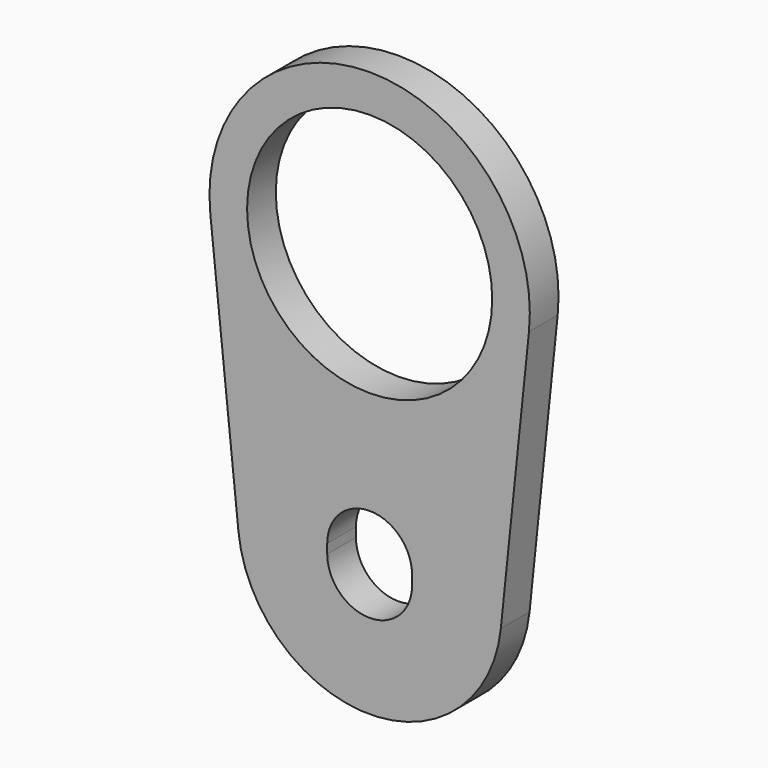
from build123d import *

# Parameters (mm, degrees)
F0_R     = 65.0367
F1_DEPTH = 19.05


with BuildPart() as f1:
    # F0 (on Front) → F1 (new body)
    with BuildSketch(Plane.XZ):
        with BuildLine():
            Line((69.6244384228, -152.2413793103), (84.5439609419, -8.7931034483))
            ThreePointArc((84.5439609419, -8.7931034483), (0, 85), (-84.5439609419, -8.7931034483))
            Line((-84.5439609419, -8.7931034483), (-69.6244384228, -152.2413793103))
            ThreePointArc((-69.6244384228, -152.2413793103), (0, -215), (69.6244384228, -152.2413793103))
        make_face()
        with BuildLine():
            Line((-22.5, -147.5), (-22.5, -142.5))
            ThreePointArc((-22.5, -142.5), (0, -120), (22.5, -142.5))
            Line((22.5, -142.5), (22.5, -147.5))
            ThreePointArc((22.5, -147.5), (0, -170), (-22.5, -147.5))
        make_face(mode=Mode.SUBTRACT)
        Circle(F0_R, mode=Mode.SUBTRACT)
    extrude(amount=F1_DEPTH)


solid = f1.part
